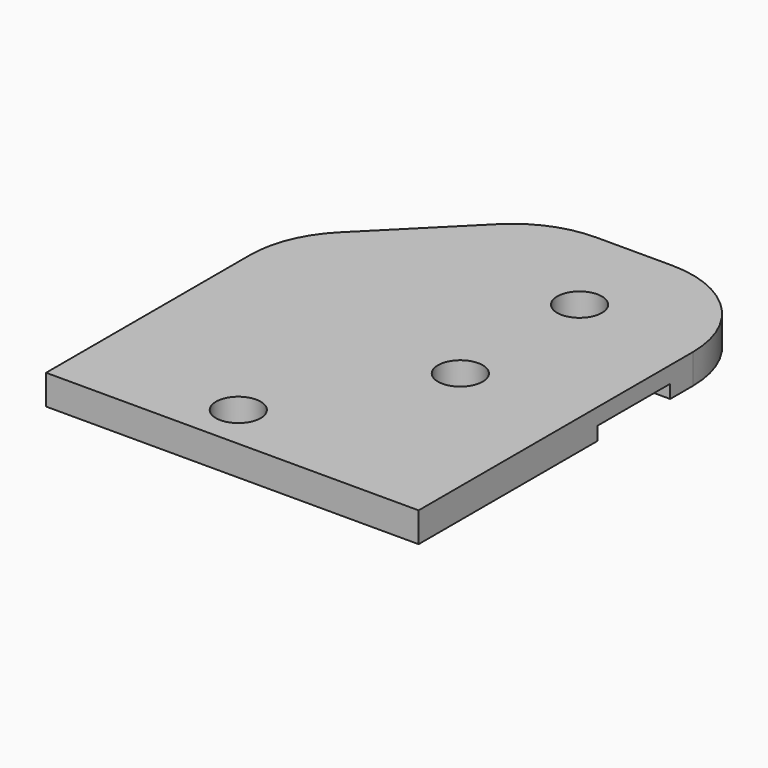
from build123d import *

# Parameters (mm, degrees)
F0_W     = 25
F0_H     = 30
F1_DEPTH = 2
F2_R     = 1.5
F3_DEPTH = 2.001
F4_W     = 25
F4_H     = 6.1
F5_DEPTH = 0.9
F6_SIZE  = 10
F7_R     = 7


with BuildPart() as f1:
    # F0 (on Top) → F1 (new body)
    with BuildSketch(Plane.XY):
        Rectangle(F0_W, F0_H)
    extrude(amount=F1_DEPTH)

    # F2 (on face) → F3 (cut, through all)
    with BuildSketch(Plane.XY.offset(2)):
        with Locations((-2, -12)):
            Circle(F2_R)
        with Locations((4.5, -1.5)):
            Circle(F2_R)
        with Locations((4.5, 8.5)):
            Circle(F2_R)
    extrude(amount=-F3_DEPTH, mode=Mode.SUBTRACT)

    # F4 (on face) → F5 (cut)
    with BuildSketch(Plane(origin=(0, 0, 0), x_dir=(1, 0, 0), z_dir=(0, 0, -1))):
        with Locations((0, -3.051)):
            Rectangle(F4_W, F4_H)
    extrude(amount=-F5_DEPTH, mode=Mode.SUBTRACT)

    # F6
    f6_edges = [f1.edges().sort_by_distance(p)[0] for p in [
        (-12.5, 15, 1),
    ]]
    chamfer(f6_edges, length=F6_SIZE)

    # F7
    f7_edges = [f1.edges().sort_by_distance(p)[0] for p in [
        (-12.5, 5, 1.45),
        (-2.5, 15, 1),
        (12.5, 15, 1),
    ]]
    fillet(f7_edges, radius=F7_R)


solid = f1.part
